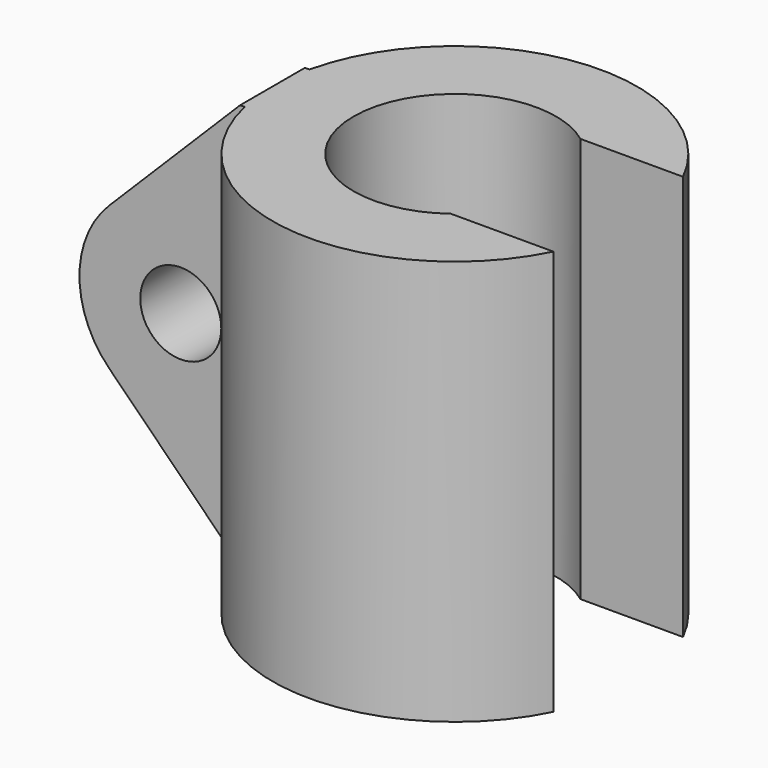
from build123d import *

# Parameters (mm, degrees)
F1_DEPTH = 10
F2_R     = 1
F2_W     = 0.686881559
F2_H     = 10
F3_DEPTH = 1


with BuildPart() as f1:
    # F0 (on Top) → F1 (new body)
    with BuildSketch(Plane.XY):
        with BuildLine():
            Line((1.5, 2), (4.0311288741, 2))
            ThreePointArc((4.0311288741, 2), (-4.5, 0), (4.0311288741, -2))
            Line((4.0311288741, -2), (1.5, -2))
            ThreePointArc((1.5, -2), (-2.5, 0), (1.5, 2))
        make_face()
    extrude(amount=F1_DEPTH)

    # F2 (on Front) → F3 (join, symmetric)
    with BuildSketch(Plane.XZ):
        with BuildLine():
            Line((-4.5, 10), (-7.732233047, 6.767766953))
            ThreePointArc((-7.732233047, 6.767766953), (-8.4644660941, 5), (-7.732233047, 3.232233047))
            Line((-7.732233047, 3.232233047), (-4.5, 0))
            Line((-4.5, 0), (-4.5, 10))
        make_face()
        with Locations((-5.9644660941, 5)):
            Circle(F2_R, mode=Mode.SUBTRACT)
        with Locations((-4.1565592205, 5)):
            Rectangle(F2_W, F2_H)
    extrude(amount=F3_DEPTH, both=True)


solid = f1.part
